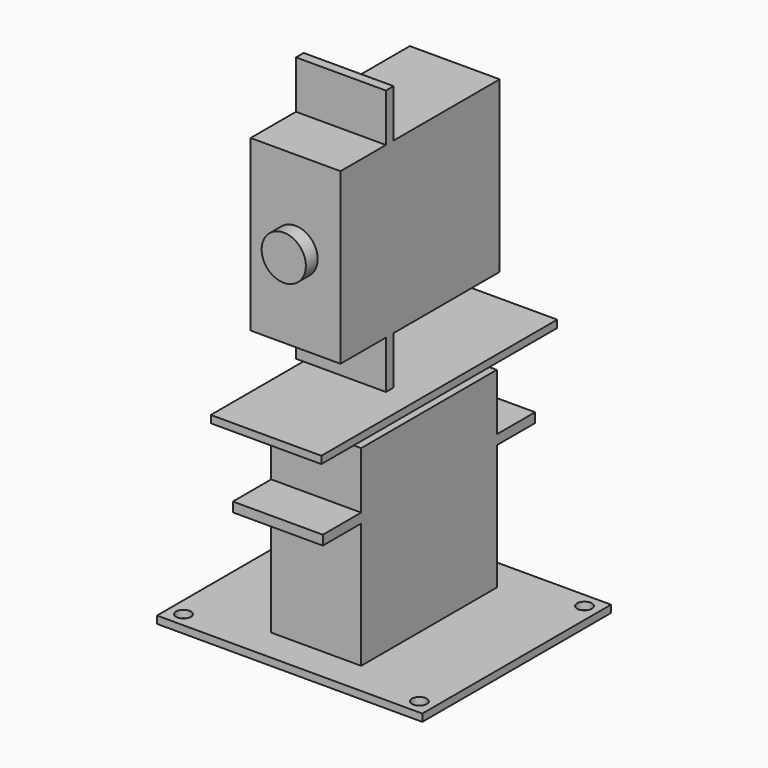
from build123d import *

# Parameters (mm, degrees)
CYLINDER001_R             = 1
CYLINDER001_DEPTH         = 1
CYLINDER_R                = 1
CYLINDER_DEPTH            = 1
CYLINDER002_R             = 1
CYLINDER002_DEPTH         = 1
CYLINDER003_R             = 1
CYLINDER003_DEPTH         = 1
BOX_W                     = 36
BOX_H                     = 32
BOX_DEPTH                 = 1
CYLINDER004_R             = 3
CYLINDER004_DEPTH         = 2
BOX003_W                  = 12.2
BOX003_H                  = 6.5
BOX003_DEPTH              = 1.3
BOX001_W                  = 12.2
BOX001_H                  = 23
BOX001_DEPTH              = 27
BOX002_W                  = 12.2
BOX002_H                  = 6.5
BOX002_DEPTH              = 1.3
BOX004_W                  = 15
BOX004_H                  = 40
BOX004_DEPTH              = 1
CYLINDER005_R             = 3
CYLINDER005_DEPTH         = 2
BOX005_W                  = 12.2
BOX005_H                  = 6.5
BOX005_DEPTH              = 1.3
BOX007_W                  = 12.2
BOX007_H                  = 23
BOX007_DEPTH              = 27
BOX006_W                  = 12.2
BOX006_H                  = 6.5
BOX006_DEPTH              = 1.3
FUSION002_ROLL_ANGLE      = -90
FUSION002_PLACEMENT_ANGLE = -180


with BuildPart() as hole2:
    # Cylinder001 → Cylinder001 (new body)
    with BuildSketch(Plane(origin=(-16, 14, 0), x_dir=(1, 0, 0), z_dir=(0, 0, 1))):
        Circle(CYLINDER001_R)
    extrude(amount=CYLINDER001_DEPTH)


with BuildPart() as hole:
    # Cylinder → Cylinder (new body)
    with BuildSketch(Plane(origin=(-16, -14, 0), x_dir=(1, 0, 0), z_dir=(0, 0, 1))):
        Circle(CYLINDER_R)
    extrude(amount=CYLINDER_DEPTH)


with BuildPart() as hole3:
    # Cylinder002 → Cylinder002 (new body)
    with BuildSketch(Plane(origin=(16, 14, 0), x_dir=(1, 0, 0), z_dir=(0, 0, 1))):
        Circle(CYLINDER002_R)
    extrude(amount=CYLINDER002_DEPTH)


with BuildPart() as holes:
    # Cylinder003 → Cylinder003 (new body)
    with BuildSketch(Plane(origin=(16, -14, 0), x_dir=(1, 0, 0), z_dir=(0, 0, 1))):
        Circle(CYLINDER003_R)
    extrude(amount=CYLINDER003_DEPTH)

    # Fusion: union hole2, hole, hole3
    add(hole2.part)
    add(hole.part)
    add(hole3.part)


with BuildPart() as base_with_attachment_holes:
    # Box → Box (new body)
    with BuildSketch(Plane(origin=(-18, -16, 0), x_dir=(1, 0, 0), z_dir=(0, 0, 1))):
        with Locations((18, 16)):
            Rectangle(BOX_W, BOX_H)
    extrude(amount=BOX_DEPTH)

    # Cut: cut Holes
    add(holes.part, mode=Mode.SUBTRACT)


with BuildPart() as rotation_cylinder:
    # Cylinder004 → Cylinder004 (new body)
    with BuildSketch(Plane.XY.offset(27)):
        Circle(CYLINDER004_R)
    extrude(amount=CYLINDER004_DEPTH)


with BuildPart() as left_shelf:
    # Box003 → Box003 (new body)
    with BuildSketch(Plane(origin=(-6.1, -18, 18), x_dir=(1, 0, 0), z_dir=(0, 0, 1))):
        with Locations((6.1, 3.25)):
            Rectangle(BOX003_W, BOX003_H)
    extrude(amount=BOX003_DEPTH)


with BuildPart() as body:
    # Box001 → Box001 (new body)
    with BuildSketch(Plane(origin=(-6.1, -11.5, 0), x_dir=(1, 0, 0), z_dir=(0, 0, 1))):
        with Locations((6.1, 11.5)):
            Rectangle(BOX001_W, BOX001_H)
    extrude(amount=BOX001_DEPTH)


with BuildPart() as base_servo_motor:
    # Box002 → Box002 (new body)
    with BuildSketch(Plane(origin=(-6.1, 11.5, 18), x_dir=(1, 0, 0), z_dir=(0, 0, 1))):
        with Locations((6.1, 3.25)):
            Rectangle(BOX002_W, BOX002_H)
    extrude(amount=BOX002_DEPTH)

    # Fusion001: union rotation cylinder, left shelf, body
    add(rotation_cylinder.part)
    add(left_shelf.part)
    add(body.part)


with BuildPart() as rotating_base:
    # Box004 → Box004 (new body)
    with BuildSketch(Plane(origin=(-7.5, -20, 29), x_dir=(1, 0, 0), z_dir=(0, 0, 1))):
        with Locations((7.5, 20)):
            Rectangle(BOX004_W, BOX004_H)
    extrude(amount=BOX004_DEPTH)


with BuildPart() as rotation_cylinder001:
    # Cylinder005 → Cylinder005 (new body)
    with BuildSketch(Plane.XY.offset(27)):
        Circle(CYLINDER005_R)
    extrude(amount=CYLINDER005_DEPTH)


with BuildPart() as left_shelf001:
    # Box005 → Box005 (new body)
    with BuildSketch(Plane(origin=(-6.1, -18, 18), x_dir=(1, 0, 0), z_dir=(0, 0, 1))):
        with Locations((6.1, 3.25)):
            Rectangle(BOX005_W, BOX005_H)
    extrude(amount=BOX005_DEPTH)


with BuildPart() as body001:
    # Box007 → Box007 (new body)
    with BuildSketch(Plane(origin=(-6.1, -11.5, 0), x_dir=(1, 0, 0), z_dir=(0, 0, 1))):
        with Locations((6.1, 11.5)):
            Rectangle(BOX007_W, BOX007_H)
    extrude(amount=BOX007_DEPTH)


with BuildPart() as upper_servo_motor:
    # Box006 → Box006 (new body)
    with BuildSketch(Plane(origin=(-6.1, 11.5, 18), x_dir=(1, 0, 0), z_dir=(0, 0, 1))):
        with Locations((6.1, 3.25)):
            Rectangle(BOX006_W, BOX006_H)
    extrude(amount=BOX006_DEPTH)

    # Fusion002: union rotation cylinder001, left shelf001, body001
    add(rotation_cylinder001.part)
    add(left_shelf001.part)
    add(body001.part)


with BuildPart() as upper_servo_motor_1:
    # Fusion002 roll: moved
    add(upper_servo_motor.part.rotate(Axis((0, 0, 0), (1, 0, 0)), FUSION002_ROLL_ANGLE))


with BuildPart() as upper_servo_motor_2:
    # Fusion002 placement: moved
    add(upper_servo_motor_1.part.moved(Location((0, 12, 50))).rotate(Axis((0, 12, 50), (0, 0, 1)), FUSION002_PLACEMENT_ANGLE))


solid = Compound([base_with_attachment_holes.part, base_servo_motor.part, rotating_base.part, upper_servo_motor_2.part])
